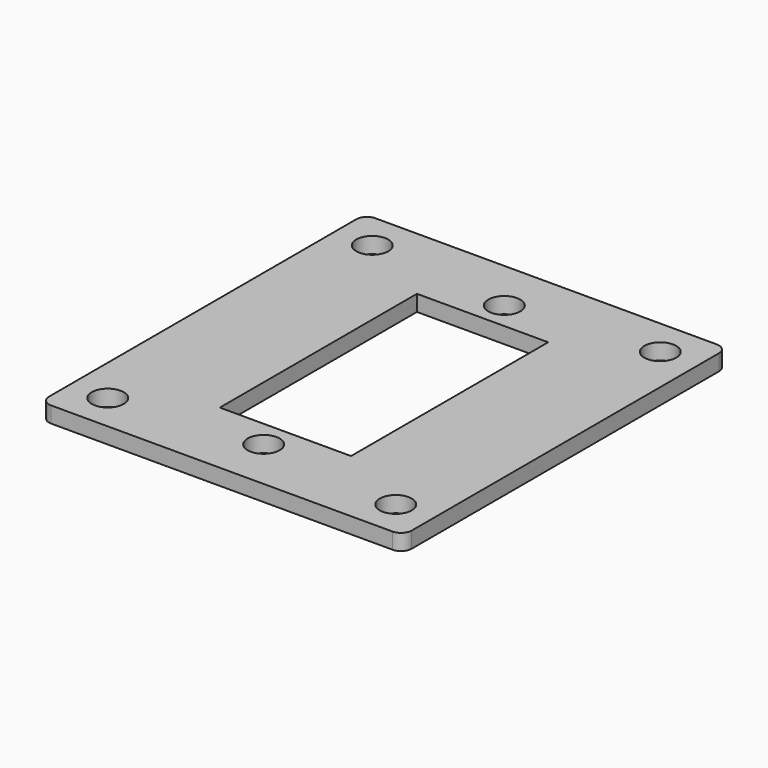
from build123d import *

# Parameters (mm, degrees)
SKETCH001_W   = 34
SKETCH001_H   = 38
SKETCH001_R   = 1.5
SKETCH001_W_2 = 12.3
SKETCH001_H_2 = 23.1
EXTRUDE_DEPTH = 1.5
FILLET_R      = 1


with BuildPart() as part:
    # Sketch001 → Extrude (new body)
    with BuildSketch(Plane.XY):
        Rectangle(SKETCH001_W, SKETCH001_H)
        with Locations((0, 14.1)):
            Circle(SKETCH001_R, mode=Mode.SUBTRACT)
        with Locations((0, -14.1)):
            Circle(SKETCH001_R, mode=Mode.SUBTRACT)
        with Locations((13.5, 15.5)):
            Circle(SKETCH001_R, mode=Mode.SUBTRACT)
        with Locations((-13.5, 15.5)):
            Circle(SKETCH001_R, mode=Mode.SUBTRACT)
        with Locations((-13.5, -15.5)):
            Circle(SKETCH001_R, mode=Mode.SUBTRACT)
        with Locations((13.5, -15.5)):
            Circle(SKETCH001_R, mode=Mode.SUBTRACT)
        Rectangle(SKETCH001_W_2, SKETCH001_H_2, mode=Mode.SUBTRACT)
    extrude(amount=EXTRUDE_DEPTH)

    # Fillet
    fillet_edges = [part.edges().sort_by_distance(p)[0] for p in [
        (-17, 19, 0.75),
        (17, 19, 0.75),
        (17, -19, 0.75),
        (-17, -19, 0.75),
    ]]
    fillet(fillet_edges, radius=FILLET_R)


solid = part.part
